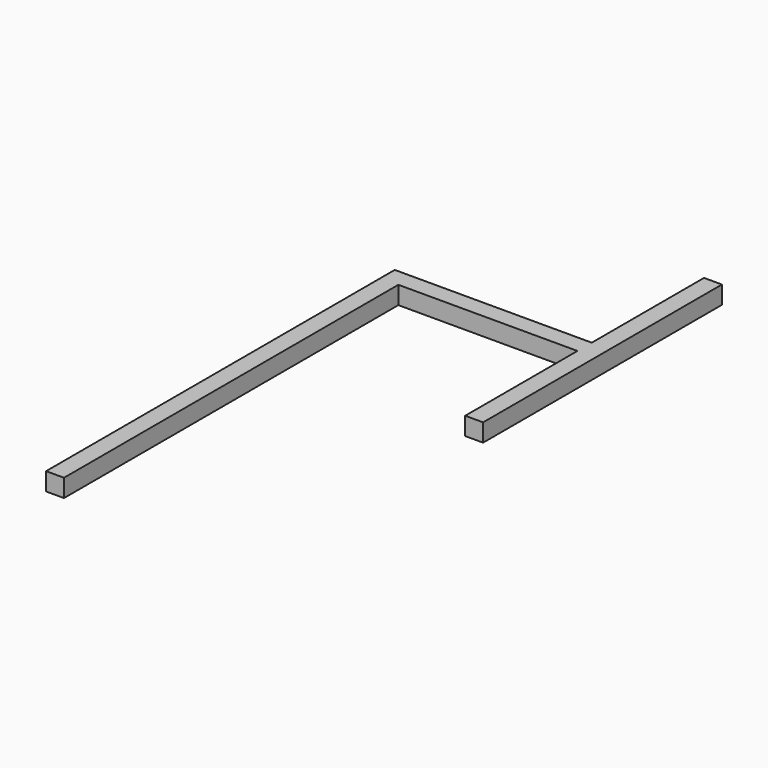
from build123d import *

# Parameters (mm, degrees)
F0_W     = 76.2
F0_H     = 1778
F1_DEPTH = 76.2


with BuildPart() as f1:
    # F0 (on Top) → F1 (new body)
    with BuildSketch(Plane.XY):
        Polygon((419.1, 0), (419.1, -38.1), (419.1, -635), (495.3, -635), (495.3, 635), (419.1, 635), (419.1, 38.1), align=None)
        Polygon((-419.1, 38.1), (-419.1, -38.1), (-342.9, -38.1), (419.1, -38.1), (419.1, 0), (419.1, 38.1), align=None)
        with Locations((-381, -927.1)):
            Rectangle(F0_W, F0_H)
    extrude(amount=F1_DEPTH)


solid = f1.part
